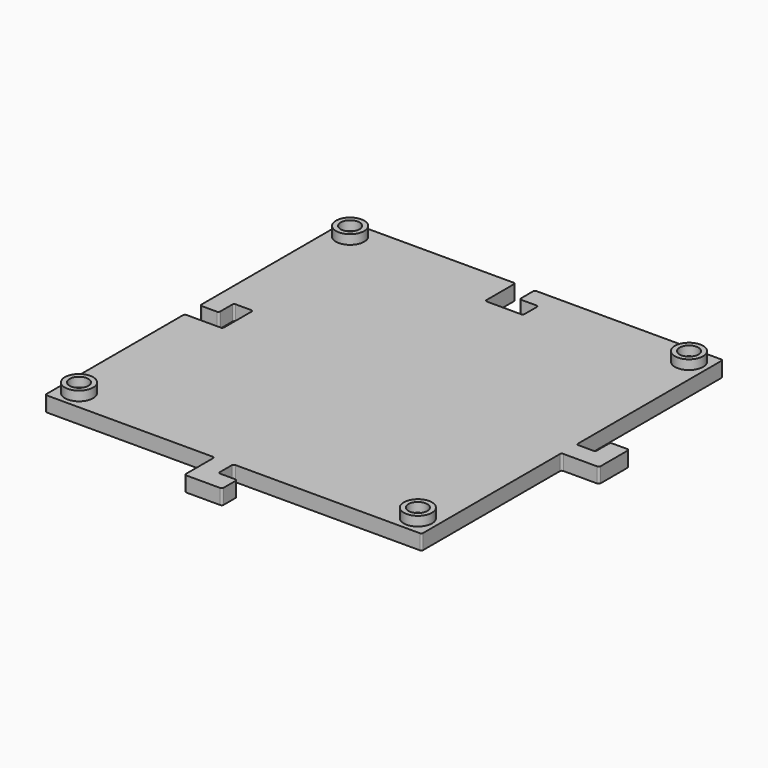
from build123d import *

# Parameters (mm, degrees)
F0_W      = 100
F0_H      = 100
F1_DEPTH  = 4
F3_DEPTH  = 4
F5_DEPTH  = 25
F6_R      = 0.5
F8_R      = 0.5
F9_R      = 0.5
F10_R     = 0.5
F11_R     = 3.75
F11_R_2   = 2.5
F12_DEPTH = 2.5


with BuildPart() as f1:
    # F0 (on Top) → F1 (new body)
    with BuildSketch(Plane.XY):
        with Locations((-18.7459290028, -1.397985096)):
            Rectangle(F0_W, F0_H)
    extrude(amount=F1_DEPTH)

    # F4 (on face) → F5 (cut)
    with BuildSketch(Plane(origin=(0, 0, 0), x_dir=(1, 0, 0), z_dir=(0, 0, -1))):
        Polygon((-23.8459290028, -48.602014904), (-18.7459290028, -48.602014904), (-18.7459290028, -43.552014904), (-13.7459290028, -43.602014904), (-13.7459290028, -38.502014904), (-23.8459290028, -38.502014904), align=None)
        Polygon((-68.7459290028, 5.1), (-68.7459290028, 0), (-63.7459290028, 0), (-63.7459290028, -5), (-58.6459290028, -5), (-58.6459290028, 5.1), align=None)
    extrude(amount=-F5_DEPTH, mode=Mode.SUBTRACT)

    # F6
    f6_edges = [f1.edges().sort_by_distance(p)[0] for p in [
        (31.254071, -51.397985, 2),
        (31.254071, 48.602015, 2),
        (-68.745929, 48.602015, 2),
        (-68.745929, -51.397985, 2),
    ]]
    fillet(f6_edges, radius=F6_R)


with BuildPart() as f3:
    # F2 (on face) → F3 (new body)
    with BuildSketch(Plane(origin=(0, 0, 0), x_dir=(1, 0, 0), z_dir=(0, 0, -1))):
        Polygon((-23.7459290028, 51.397985096), (-18.7459290028, 51.397985096), (-18.7459290028, 56.397985096), (-13.7459290028, 56.397985096), (-13.7459290028, 61.397985096), (-23.7459290028, 61.397985096), align=None)
    extrude(amount=-F3_DEPTH)


with BuildPart() as f3b:
    # F2 (on face) → F3, piece 2 (new body)
    with BuildSketch(Plane(origin=(0, 0, 0), x_dir=(1, 0, 0), z_dir=(0, 0, -1))):
        Polygon((41.2540709972, 5), (31.2540709972, 5), (31.2540709972, 0), (36.2540709972, 0), (36.2540709972, -5), (41.2540709972, -5), align=None)
    extrude(amount=-F3_DEPTH)


with BuildPart() as f3_1:
    add(f3.part)

    # F7: union F1, F3b
    add(f1.part)
    add(f3b.part)

    # F8
    f8_edges = [f3_1.edges().sort_by_distance(p)[0] for p in [
        (-23.745929, -51.397985, 2),
        (-18.745929, -51.397985, 2),
        (-13.745929, -61.397985, 2),
        (-13.745929, -56.397985, 2),
        (-18.745929, -56.397985, 2),
        (-23.745929, -61.397985, 2),
        (31.254071, -5, 2),
        (41.254071, -5, 2),
        (41.254071, 5, 2),
        (36.254071, 5, 2),
        (36.254071, 0, 2),
        (31.254071, 0, 2),
        (-23.845929, 38.502015, 2),
        (-13.745929, 38.502015, 2),
        (-18.745929, 48.602015, 2),
        (-18.745929, 43.552015, 2),
        (-23.845929, 48.602015, 2),
        (-13.745929, 43.602015, 2),
    ]]
    fillet(f8_edges, radius=F8_R)

    # F9
    f9_edges = [f3_1.edges().sort_by_distance(p)[0] for p in [
        (-58.645929, 5, 2),
        (-68.745929, 0, 2),
    ]]
    fillet(f9_edges, radius=F9_R)

    # F10
    f10_edges = [f3_1.edges().sort_by_distance(p)[0] for p in [
        (-63.745929, 0, 2),
        (-63.745929, 5, 2),
        (-58.645929, -5.1, 2),
        (-68.745929, -5.1, 2),
    ]]
    fillet(f10_edges, radius=F10_R)

    # F11 (on face) → F12 (join)
    with BuildSketch(Plane.XY.offset(4)):
        with Locations((-63.7459290028, 43.602014904)):
            Circle(F11_R)
        with Locations((-63.7459290028, 43.602014904)):
            Circle(F11_R_2, mode=Mode.SUBTRACT)
        with Locations((26.2540709972, 43.602014904)):
            Circle(F11_R)
        with Locations((26.2540709972, 43.602014904)):
            Circle(F11_R_2, mode=Mode.SUBTRACT)
        with Locations((26.2540709972, -46.397985096)):
            Circle(F11_R)
        with Locations((26.2540709972, -46.397985096)):
            Circle(F11_R_2, mode=Mode.SUBTRACT)
        with Locations((-63.7459290028, -46.397985096)):
            Circle(F11_R)
        with Locations((-63.7459290028, -46.397985096)):
            Circle(F11_R_2, mode=Mode.SUBTRACT)
    extrude(amount=F12_DEPTH)


solid = f3_1.part
